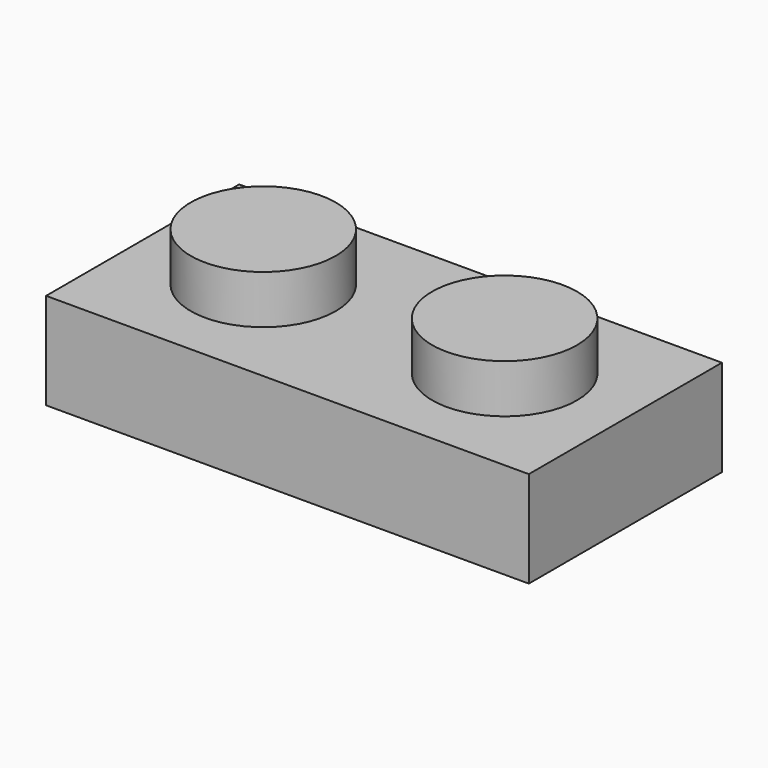
from build123d import *

# Parameters (mm, degrees)
F0_W     = 15.9004
F0_H     = 7.9502
F0_R     = 2.3876
F1_DEPTH = 3.175
F2_DEPTH = 4.7752
F3_T     = -1.6002


with BuildPart() as f1:
    # F0 (on Top) → F1 (new body)
    with BuildSketch(Plane.XY):
        with Locations((-7.9505280386, 18.2070285082)):
            Rectangle(F0_W, F0_H)
        with Locations((-11.9383280386, 18.2197285082)):
            Circle(F0_R, mode=Mode.SUBTRACT)
        with Locations((-3.9881280386, 18.2197285082)):
            Circle(F0_R, mode=Mode.SUBTRACT)
    extrude(amount=F1_DEPTH)

    # F0 (on Top) → F2 (join)
    with BuildSketch(Plane.XY):
        with Locations((-11.9383280386, 18.2197285082)):
            Circle(F0_R)
        with Locations((-3.9881280386, 18.2197285082)):
            Circle(F0_R)
    extrude(amount=F2_DEPTH)

    # F3
    f3_openings = [f1.faces().sort_by_distance(p)[0] for p in [
        (-7.950528, 18.207029, 0),
    ]]
    offset(amount=F3_T, openings=f3_openings, kind=Kind.INTERSECTION)


solid = f1.part
